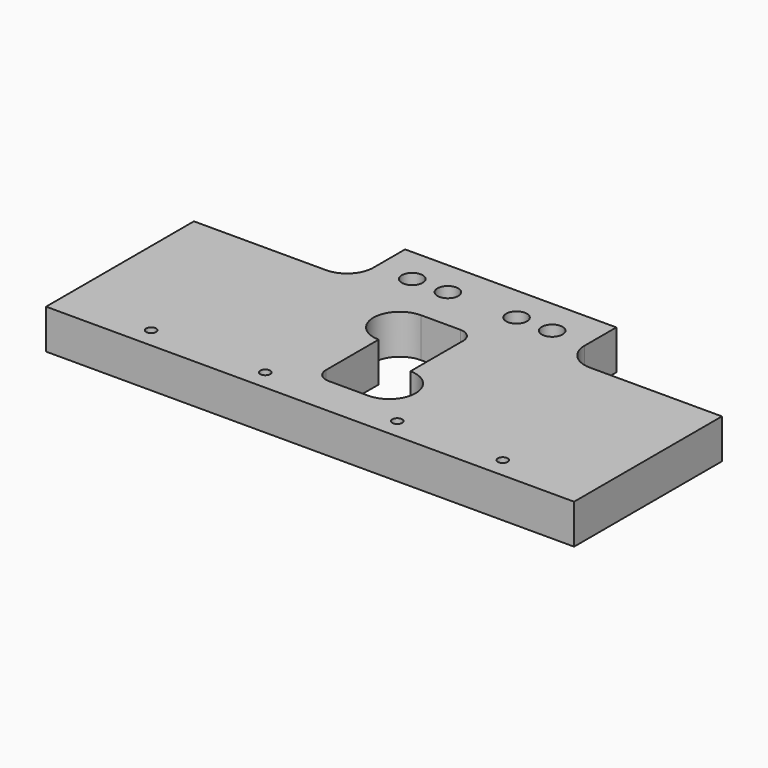
from build123d import *

# Parameters (mm, degrees)
F0_R     = 5
F1_DEPTH = 19.05


with BuildPart() as f1:
    # F0 (on Top) → F1 (new body)
    with BuildSketch(Plane.XY):
        with BuildLine():
            Line((-50.8, -50.8), (50.8, -50.8))
            Line((50.8, -50.8), (127, -50.8))
            Line((127, -50.8), (127, -38.1))
            Line((127, -38.1), (127, 38.1))
            Line((127, 38.1), (63.5, 38.1))
            ThreePointArc((63.5, 38.1), (54.519744, 41.819744), (50.8, 50.8))
            Line((50.8, 50.8), (50.8, 69.85))
            Line((50.8, 69.85), (-50.8, 69.85))
            Line((-50.8, 69.85), (-50.8, 50.8))
            ThreePointArc((-50.8, 50.8), (-54.519744, 41.819744), (-63.5, 38.1))
            Line((-63.5, 38.1), (-127, 38.1))
            Line((-127, 38.1), (-127, -38.1))
            Line((-127, -38.1), (-127, -50.8))
            Line((-127, -50.8), (-50.8, -50.8))
        make_face()
        with BuildLine():
            ThreePointArc((-86.57349, -41.11626), (-84.19224, -38.73501), (-81.81099, -41.11626))
            ThreePointArc((-81.81099, -41.11626), (-84.19224, -43.49751), (-86.57349, -41.11626))
        make_face(mode=Mode.SUBTRACT)
        with BuildLine():
            ThreePointArc((-31.70949, -41.11626), (-29.32824, -38.73501), (-26.94699, -41.11626))
            ThreePointArc((-26.94699, -41.11626), (-29.32824, -43.49751), (-31.70949, -41.11626))
        make_face(mode=Mode.SUBTRACT)
        with BuildLine():
            ThreePointArc((12.699988, -6.35), (25.399988, -19.05), (12.699988, -31.75))
            Line((12.699988, -31.75), (-6.350012, -31.75))
            ThreePointArc((-6.350012, -31.75), (-10.840141, -29.890128), (-12.700012, -25.4))
            Line((-12.700012, -25.4), (-12.700012, 6.35))
            ThreePointArc((-12.700012, 6.35), (-25.400012, 19.05), (-12.700012, 31.75))
            Line((-12.700012, 31.75), (6.349988, 31.75))
            ThreePointArc((6.349988, 31.75), (10.840116, 29.890128), (12.699988, 25.4))
            Line((12.699988, 25.4), (12.699988, -6.35))
        make_face(mode=Mode.SUBTRACT)
        with BuildLine():
            ThreePointArc((31.79051, -41.11626), (34.17176, -38.73501), (36.55301, -41.11626))
            ThreePointArc((36.55301, -41.11626), (34.17176, -43.49751), (31.79051, -41.11626))
        make_face(mode=Mode.SUBTRACT)
        with BuildLine():
            ThreePointArc((87.35301, -41.11626), (84.97176, -43.49751), (82.59051, -41.11626))
            ThreePointArc((82.59051, -41.11626), (84.97176, -38.73501), (87.35301, -41.11626))
        make_face(mode=Mode.SUBTRACT)
        with Locations((-33.655, 52.705)):
            Circle(F0_R, mode=Mode.SUBTRACT)
        with Locations((-16.51, 52.705)):
            Circle(F0_R, mode=Mode.SUBTRACT)
        with Locations((16.51, 52.705)):
            Circle(F0_R, mode=Mode.SUBTRACT)
        with Locations((33.655, 52.705)):
            Circle(F0_R, mode=Mode.SUBTRACT)
    extrude(amount=-F1_DEPTH)


with BuildPart() as f2_1:
    # F2: copy of F1
    add(f1.part)


with BuildPart() as f4_1:
    # F4: copy of F1
    add(f1.part)


solid = f1.part
